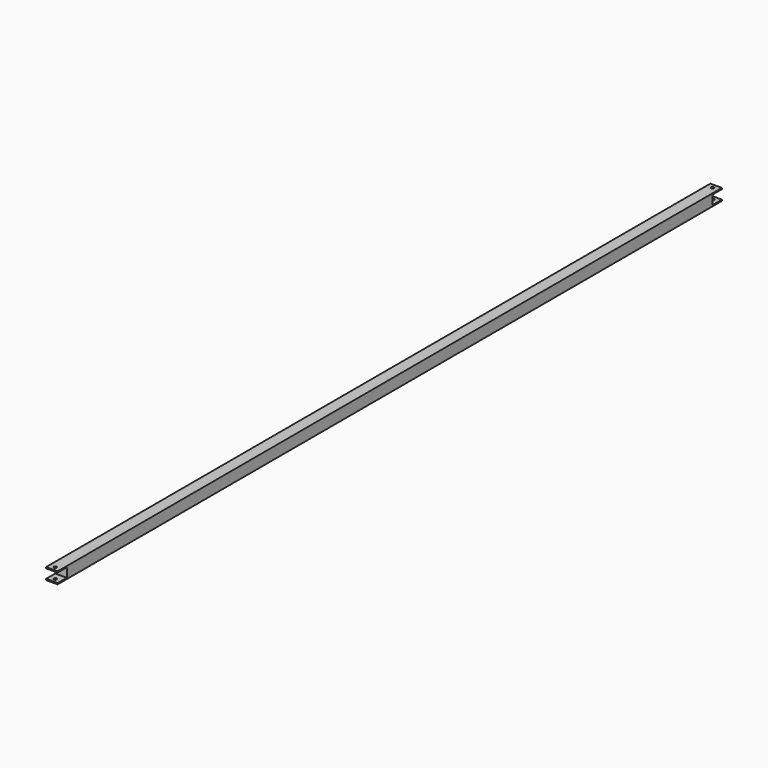
from build123d import *

# Parameters (mm, degrees)
F0_W     = 25.4
F0_H     = 1828.8
F1_DEPTH = 25.4
F2_W     = 25.4
F2_H     = 20.32
F3_DEPTH = 25.4
F4_W     = 50.8
F4_H     = 20.32
F5_DEPTH = 25.4
F6_R     = 3.175
F7_DEPTH = 50.8


with BuildPart() as f1:
    # F0 (on Top) → F1 (new body)
    with BuildSketch(Plane.XY):
        Rectangle(F0_W, F0_H)
    extrude(amount=F1_DEPTH)

    # F2 (on face) → F3 (cut)
    with BuildSketch(Plane(origin=(-12.7, 0, 0), x_dir=(0, -1, 0), z_dir=(-1, 0, 0))):
        with Locations((-927.1, 12.7)):
            Rectangle(F2_W, F2_H)
        with Locations((-901.7, 12.7)):
            Rectangle(F2_W, F2_H)
    extrude(amount=-F3_DEPTH, mode=Mode.SUBTRACT)

    # F4 (on face) → F5 (cut)
    with BuildSketch(Plane(origin=(-12.7, 0, 0), x_dir=(0, -1, 0), z_dir=(-1, 0, 0))):
        with Locations((914.4, 12.7)):
            Rectangle(F4_W, F4_H)
    extrude(amount=-F5_DEPTH, mode=Mode.SUBTRACT)

    # F6 (on face) → F7 (cut)
    with BuildSketch(Plane.XY.offset(25.4)):
        with Locations((0, 904.875)):
            Circle(F6_R)
        with Locations((0, -904.875)):
            Circle(F6_R)
    extrude(amount=-F7_DEPTH, mode=Mode.SUBTRACT)


solid = f1.part
